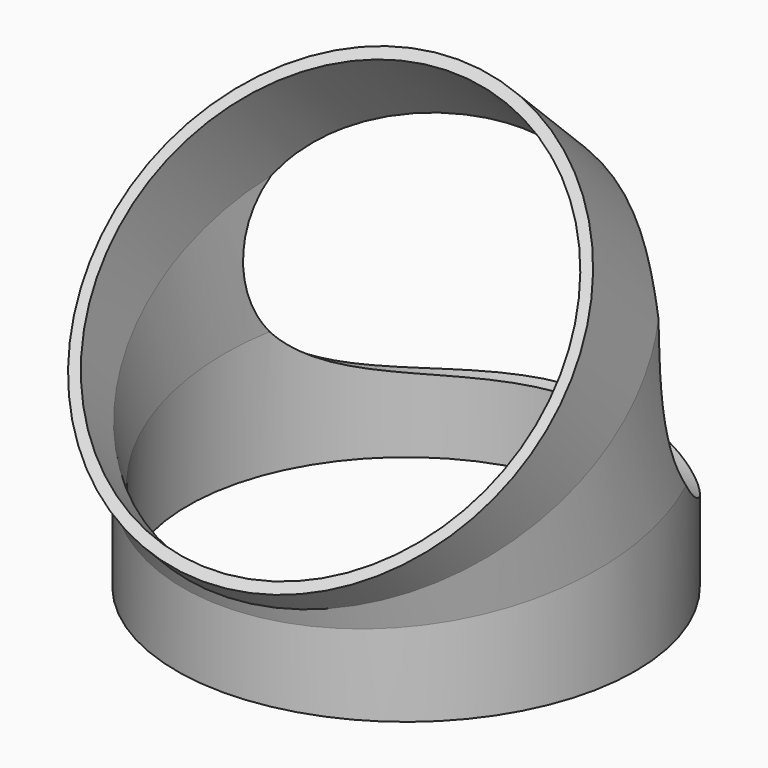
from build123d import *

# Parameters (mm, degrees)
F0_R          = 52.07
F0_R_2        = 49.53
F4_DEPTH      = 50.8
F4_DEPTH_BACK = 50.8


with BuildPart() as f2:
    # F2: sweep along a path in F1
    with BuildLine(Plane.YZ) as f2_path:
        Line((0, 0), (0, 25.4))
        Line((0, 25.4), (-7.4446247891, 48.2820980251))
        Line((-7.4446247891, 48.2820980251), (-21.4247759432, 61.7959573865))
    # F0 (on Top) → F2 (sweep)
    with BuildSketch(Plane.XY):
        Circle(F0_R)
        Circle(F0_R_2, mode=Mode.SUBTRACT)
    sweep(path=f2_path.line, transition=Transition.RIGHT)

    # F3 (on Right) → F4 (cut, two sides)
    with BuildSketch(Plane.YZ) as f4_sk:
        with BuildLine():
            ThreePointArc((11.6053752109, 48.2820980251), (43.3553752109, 16.5320980251), (75.1053752109, 48.2820980251))
            ThreePointArc((75.1053752109, 48.2820980251), (43.3553752109, 80.0320980251), (11.6053752109, 48.2820980251))
        make_face()
    extrude(amount=-F4_DEPTH, mode=Mode.SUBTRACT)
    extrude(f4_sk.sketch, amount=F4_DEPTH_BACK, mode=Mode.SUBTRACT)


solid = f2.part
